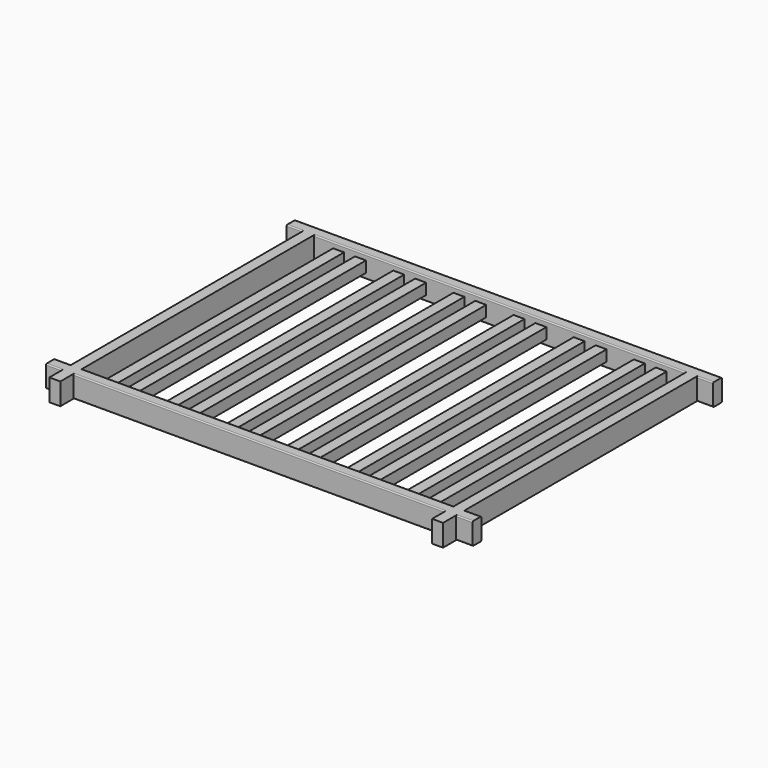
from build123d import *

# Parameters (mm, degrees)
F0_W          = 75
F0_H          = 50
F0_W_2        = 50
F0_W_3        = 1700
F0_H_2        = 1325
F0_H_3        = 75
F1_DEPTH      = 75
F1_DEPTH_BACK = 25
F2_R          = 5
F3_W          = 50
F3_H          = 1325
F4_DEPTH      = 50


with BuildPart() as f1:
    # F0 (on Top) → F1 (new body, two sides)
    with BuildSketch(Plane.XY) as f1_sk:
        with Locations((37.5, 1475)):
            Rectangle(F0_W, F0_H)
        with Locations((100, 1475)):
            Rectangle(F0_W_2, F0_H)
        with Locations((975, 1475)):
            Rectangle(F0_W_3, F0_H)
        with Locations((100, 787.5)):
            Rectangle(F0_W_2, F0_H_2)
        with Locations((1850, 1475)):
            Rectangle(F0_W_2, F0_H)
        with Locations((37.5, 100)):
            Rectangle(F0_W, F0_H)
        with Locations((100, 100)):
            Rectangle(F0_W_2, F0_H)
        with Locations((1912.5, 1475)):
            Rectangle(F0_W, F0_H)
        with Locations((1850, 787.5)):
            Rectangle(F0_W_2, F0_H_2)
        with Locations((975, 100)):
            Rectangle(F0_W_3, F0_H)
        with Locations((100, 37.5)):
            Rectangle(F0_W_2, F0_H_3)
        with Locations((1850, 100)):
            Rectangle(F0_W_2, F0_H)
        with Locations((1912.5, 100)):
            Rectangle(F0_W, F0_H)
        with Locations((1850, 37.5)):
            Rectangle(F0_W_2, F0_H_3)
    extrude(amount=F1_DEPTH)
    extrude(f1_sk.sketch, amount=-F1_DEPTH_BACK)

    # F2
    f2_edges = [f1.edges().sort_by_distance(p)[0] for p in [
        (975, 1450, 75),
        (975, 1500, 75),
        (975, 125, 75),
        (975, 75, 75),
        (37.5, 75, 75),
        (37.5, 125, 75),
        (1912.5, 125, 75),
        (1912.5, 75, 75),
        (1912.5, 1450, 75),
        (37.5, 1450, 75),
        (975, 1500, -25),
        (975, 1450, -25),
        (1912.5, 1450, -25),
        (1912.5, 75, -25),
        (1912.5, 125, -25),
        (975, 125, -25),
        (975, 75, -25),
        (37.5, 125, -25),
        (37.5, 75, -25),
        (37.5, 1450, -25),
    ]]
    fillet(f2_edges, radius=F2_R)


with BuildPart() as f4:
    # F3 (on Top) → F4 (new body)
    with BuildSketch(Plane.XY):
        with Locations((237.45, 787.5)):
            Rectangle(F3_W, F3_H)
    extrude(amount=F4_DEPTH)


with BuildPart() as f4b:
    # F3 (on Top) → F4, piece 2 (new body)
    with BuildSketch(Plane.XY):
        with Locations((337.45, 787.5)):
            Rectangle(F3_W, F3_H)
    extrude(amount=F4_DEPTH)


with BuildPart() as f4c:
    # F3 (on Top) → F4, piece 3 (new body)
    with BuildSketch(Plane.XY):
        with Locations((612.45, 787.5)):
            Rectangle(F3_W, F3_H)
    extrude(amount=F4_DEPTH)


with BuildPart() as f4d:
    # F3 (on Top) → F4, piece 4 (new body)
    with BuildSketch(Plane.XY):
        with Locations((512.45, 787.5)):
            Rectangle(F3_W, F3_H)
    extrude(amount=F4_DEPTH)


with BuildPart() as f4e:
    # F3 (on Top) → F4, piece 5 (new body)
    with BuildSketch(Plane.XY):
        with Locations((887.45, 787.5)):
            Rectangle(F3_W, F3_H)
    extrude(amount=F4_DEPTH)


with BuildPart() as f4f:
    # F3 (on Top) → F4, piece 6 (new body)
    with BuildSketch(Plane.XY):
        with Locations((787.45, 787.5)):
            Rectangle(F3_W, F3_H)
    extrude(amount=F4_DEPTH)


with BuildPart() as f4g:
    # F3 (on Top) → F4, piece 7 (new body)
    with BuildSketch(Plane.XY):
        with Locations((1162.45, 787.5)):
            Rectangle(F3_W, F3_H)
    extrude(amount=F4_DEPTH)


with BuildPart() as f4h:
    # F3 (on Top) → F4, piece 8 (new body)
    with BuildSketch(Plane.XY):
        with Locations((1062.45, 787.5)):
            Rectangle(F3_W, F3_H)
    extrude(amount=F4_DEPTH)


with BuildPart() as f4i:
    # F3 (on Top) → F4, piece 9 (new body)
    with BuildSketch(Plane.XY):
        with Locations((1437.45, 787.5)):
            Rectangle(F3_W, F3_H)
    extrude(amount=F4_DEPTH)


with BuildPart() as f4j:
    # F3 (on Top) → F4, piece 10 (new body)
    with BuildSketch(Plane.XY):
        with Locations((1337.45, 787.5)):
            Rectangle(F3_W, F3_H)
    extrude(amount=F4_DEPTH)


with BuildPart() as f4k:
    # F3 (on Top) → F4, piece 11 (new body)
    with BuildSketch(Plane.XY):
        with Locations((1712.45, 787.5)):
            Rectangle(F3_W, F3_H)
    extrude(amount=F4_DEPTH)


with BuildPart() as f4l:
    # F3 (on Top) → F4, piece 12 (new body)
    with BuildSketch(Plane.XY):
        with Locations((1612.45, 787.5)):
            Rectangle(F3_W, F3_H)
    extrude(amount=F4_DEPTH)


solid = Compound([f1.part, f4.part, f4b.part, f4c.part, f4d.part, f4e.part, f4f.part, f4g.part, f4h.part, f4i.part, f4j.part, f4k.part, f4l.part])
